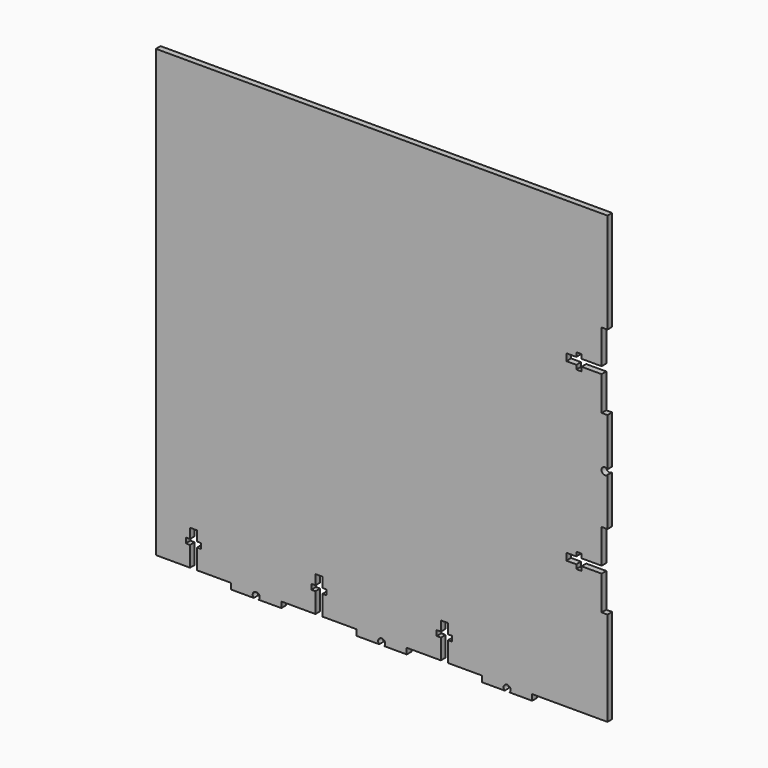
from build123d import *

# Parameters (mm, degrees)
F1_DEPTH = 2.9718


with BuildPart() as f1:
    # F0 (on Front) → F1 (new body)
    with BuildSketch(Plane.XZ):
        with BuildLine():
            Line((64.744341, -114.3), (76.2, -114.3))
            Line((76.2, -114.3), (76.2, -111.3282))
            Line((76.2, -111.3282), (114.3, -111.3282))
            Line((114.3, -111.3282), (114.3, -63.5))
            Line((114.3, -63.5), (111.3282, -63.5))
            Line((111.3282, -63.5), (111.3282, -46.2153))
            Line((111.3282, -46.2153), (101.1682, -46.2153))
            Line((101.1682, -46.2153), (101.1682, -48.3362))
            Line((101.1682, -48.3362), (98.5266, -48.3362))
            Line((98.5266, -48.3362), (98.5266, -46.2153))
            Line((98.5266, -46.2153), (93.4974, -46.2153))
            Line((93.4974, -46.2153), (93.4974, -42.6847))
            Line((93.4974, -42.6847), (98.5266, -42.6847))
            Line((98.5266, -42.6847), (98.5266, -40.5638))
            Line((98.5266, -40.5638), (101.1682, -40.5638))
            Line((101.1682, -40.5638), (101.1682, -42.6847))
            Line((101.1682, -42.6847), (111.3282, -42.6847))
            Line((111.3282, -42.6847), (111.3282, -25.4))
            Line((111.3282, -25.4), (114.3, -25.4))
            Line((114.3, -25.4), (114.3, -1.244341))
            ThreePointArc((114.3, -1.244341), (111.252, 0), (114.3, 1.244341))
            Line((114.3, 1.244341), (114.3, 25.4))
            Line((114.3, 25.4), (111.3282, 25.4))
            Line((111.3282, 25.4), (111.3282, 42.6847))
            Line((111.3282, 42.6847), (101.1682, 42.6847))
            Line((101.1682, 42.6847), (101.1682, 40.5638))
            Line((101.1682, 40.5638), (98.5266, 40.5638))
            Line((98.5266, 40.5638), (98.5266, 42.6847))
            Line((98.5266, 42.6847), (93.4974, 42.6847))
            Line((93.4974, 42.6847), (93.4974, 46.2153))
            Line((93.4974, 46.2153), (98.5266, 46.2153))
            Line((98.5266, 46.2153), (98.5266, 48.3362))
            Line((98.5266, 48.3362), (101.1682, 48.3362))
            Line((101.1682, 48.3362), (101.1682, 46.2153))
            Line((101.1682, 46.2153), (111.3282, 46.2153))
            Line((111.3282, 46.2153), (111.3282, 63.5))
            Line((111.3282, 63.5), (114.3, 63.5))
            Line((114.3, 63.5), (114.3, 114.3))
            Line((114.3, 114.3), (-114.3, 114.3))
            Line((-114.3, 114.3), (-114.3, -111.3282))
            Line((-114.3, -111.3282), (-97.0153, -111.3282))
            Line((-97.0153, -111.3282), (-97.0153, -101.1682))
            Line((-97.0153, -101.1682), (-99.1362, -101.1682))
            Line((-99.1362, -101.1682), (-99.1362, -98.5266))
            Line((-99.1362, -98.5266), (-97.0153, -98.5266))
            Line((-97.0153, -98.5266), (-97.0153, -93.4974))
            Line((-97.0153, -93.4974), (-93.4847, -93.4974))
            Line((-93.4847, -93.4974), (-93.4847, -98.5266))
            Line((-93.4847, -98.5266), (-91.3638, -98.5266))
            Line((-91.3638, -98.5266), (-91.3638, -101.1682))
            Line((-91.3638, -101.1682), (-93.4847, -101.1682))
            Line((-93.4847, -101.1682), (-93.4847, -111.3282))
            Line((-93.4847, -111.3282), (-76.2, -111.3282))
            Line((-76.2, -111.3282), (-76.2, -114.3))
            Line((-76.2, -114.3), (-64.744341, -114.3))
            ThreePointArc((-64.744341, -114.3), (-63.5, -111.252), (-62.255659, -114.3))
            Line((-62.255659, -114.3), (-50.8, -114.3))
            Line((-50.8, -114.3), (-50.8, -111.3282))
            Line((-50.8, -111.3282), (-33.5153, -111.3282))
            Line((-33.5153, -111.3282), (-33.5153, -101.1682))
            Line((-33.5153, -101.1682), (-35.6362, -101.1682))
            Line((-35.6362, -101.1682), (-35.6362, -98.5266))
            Line((-35.6362, -98.5266), (-33.5153, -98.5266))
            Line((-33.5153, -98.5266), (-33.5153, -93.4974))
            Line((-33.5153, -93.4974), (-29.9847, -93.4974))
            Line((-29.9847, -93.4974), (-29.9847, -98.5266))
            Line((-29.9847, -98.5266), (-27.8638, -98.5266))
            Line((-27.8638, -98.5266), (-27.8638, -101.1682))
            Line((-27.8638, -101.1682), (-29.9847, -101.1682))
            Line((-29.9847, -101.1682), (-29.9847, -111.3282))
            Line((-29.9847, -111.3282), (-12.7, -111.3282))
            Line((-12.7, -111.3282), (-12.7, -114.3))
            Line((-12.7, -114.3), (-1.244341, -114.3))
            ThreePointArc((-1.244341, -114.3), (0, -111.252), (1.244341, -114.3))
            Line((1.244341, -114.3), (12.7, -114.3))
            Line((12.7, -114.3), (12.7, -111.3282))
            Line((12.7, -111.3282), (29.9847, -111.3282))
            Line((29.9847, -111.3282), (29.9847, -101.1682))
            Line((29.9847, -101.1682), (27.8638, -101.1682))
            Line((27.8638, -101.1682), (27.8638, -98.5266))
            Line((27.8638, -98.5266), (29.9847, -98.5266))
            Line((29.9847, -98.5266), (29.9847, -93.4974))
            Line((29.9847, -93.4974), (33.5153, -93.4974))
            Line((33.5153, -93.4974), (33.5153, -98.5266))
            Line((33.5153, -98.5266), (35.6362, -98.5266))
            Line((35.6362, -98.5266), (35.6362, -101.1682))
            Line((35.6362, -101.1682), (33.5153, -101.1682))
            Line((33.5153, -101.1682), (33.5153, -111.3282))
            Line((33.5153, -111.3282), (50.8, -111.3282))
            Line((50.8, -111.3282), (50.8, -114.3))
            Line((50.8, -114.3), (62.255659, -114.3))
            ThreePointArc((62.255659, -114.3), (63.5, -111.252), (64.744341, -114.3))
        make_face()
    extrude(amount=F1_DEPTH)


solid = f1.part
